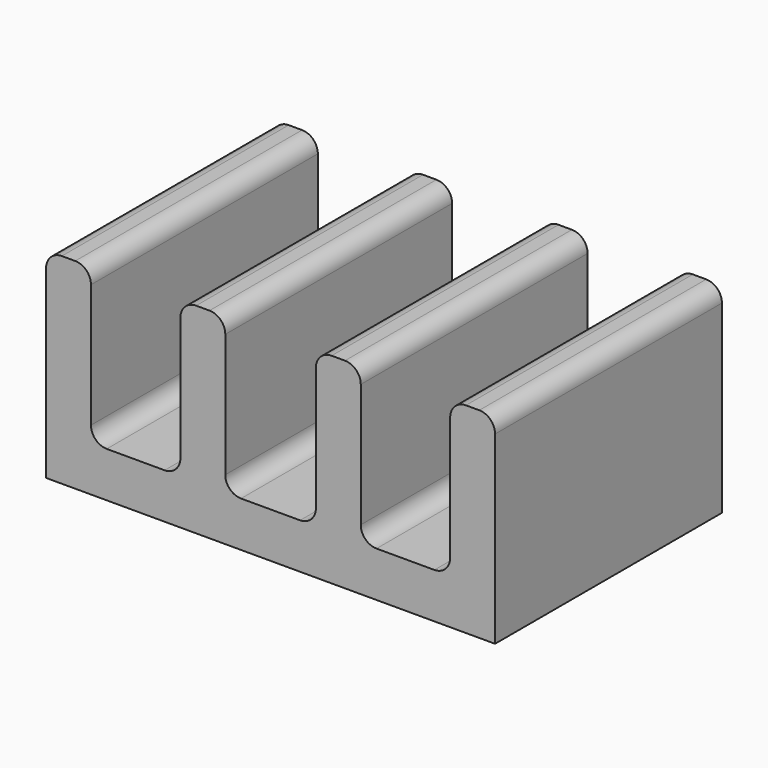
from build123d import *

# Parameters (mm, degrees)
PAD_DEPTH = 3.6
FILLET_R  = 0.4


with BuildPart() as part:
    # Sketch → Pad (new body, symmetric)
    with BuildSketch(Plane.XZ):
        Polygon((-5.7, 0), (5.7, 0), (5.7, 5.09), (4.56, 5.09), (4.56, 1.15), (2.29, 1.15), (2.29, 5.09), (1.15, 5.09), (1.15, 1.15), (-1.15, 1.15), (-1.15, 5.09), (-2.29, 5.09), (-2.29, 1.15), (-4.56, 1.15), (-4.56, 5.09), (-5.7, 5.09), align=None)
    extrude(amount=PAD_DEPTH, both=True)

    # Fillet
    fillet_edges = [part.edges().sort_by_distance(p)[0] for p in [
        (-5.7, 0, 5.09),
        (-4.56, 0, 5.09),
        (-2.29, 0, 5.09),
        (-1.15, 0, 5.09),
        (1.15, 0, 5.09),
        (2.29, 0, 5.09),
        (4.56, 0, 5.09),
        (5.7, 0, 5.09),
        (-4.56, 0, 1.15),
        (-1.15, 0, 1.15),
        (2.29, 0, 1.15),
        (-2.29, 0, 1.15),
        (1.15, 0, 1.15),
        (4.56, 0, 1.15),
    ]]
    fillet(fillet_edges, radius=FILLET_R)


solid = part.part
